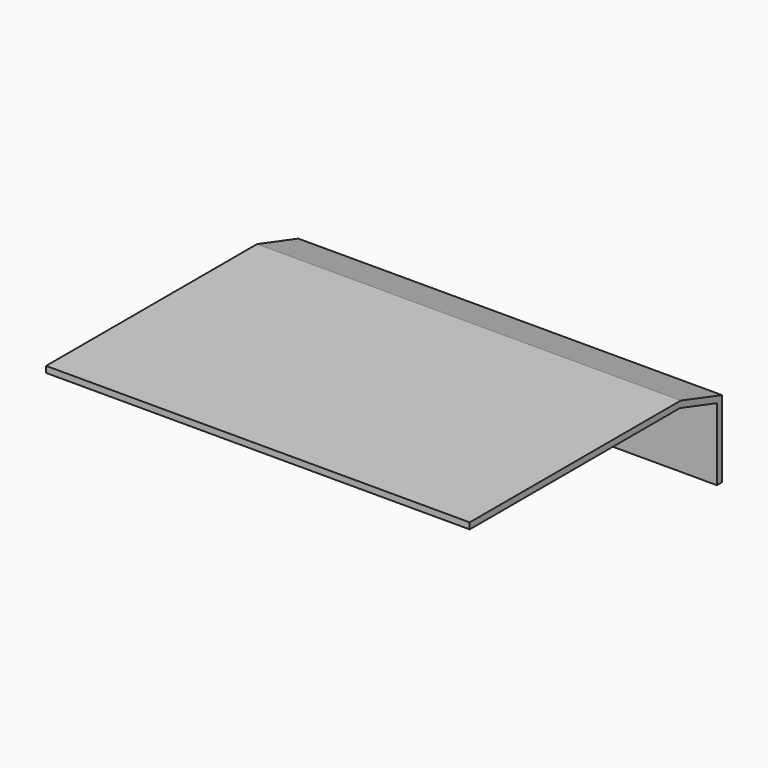
from build123d import *

# Parameters (mm, degrees)
F1_DEPTH = 1295.4
F2_R     = 5
F3_DEPTH = 12.7


with BuildPart() as f1:
    # F0 (on Right) → F1 (new body)
    with BuildSketch(Plane.YZ):
        Polygon((298.471377, 202.190124), (-507.978623, 202.190124), (-507.978623, 183.140124), (295.564322, 183.140124), (437.00695, 138.942233), (437.00695, -82.002103), (456.05695, -82.002103), (456.05695, 152.947897), align=None)
    extrude(amount=F1_DEPTH)

    # F2 (on face) → F3 (cut)
    with BuildSketch(Plane(origin=(0, 0, -82.002103), x_dir=(1, 0, 0), z_dir=(0, 0, -1))):
        with Locations((22, -446.53195)):
            Circle(F2_R)
        with Locations((1273.4, -446.53195)):
            Circle(F2_R)
        with Locations((1023.4, -446.53195)):
            Circle(F2_R)
        with Locations((272, -446.53195)):
            Circle(F2_R)
        with Locations((773.4, -446.53195)):
            Circle(F2_R)
        with Locations((522, -446.53195)):
            Circle(F2_R)
    extrude(amount=-F3_DEPTH, mode=Mode.SUBTRACT)


solid = f1.part
